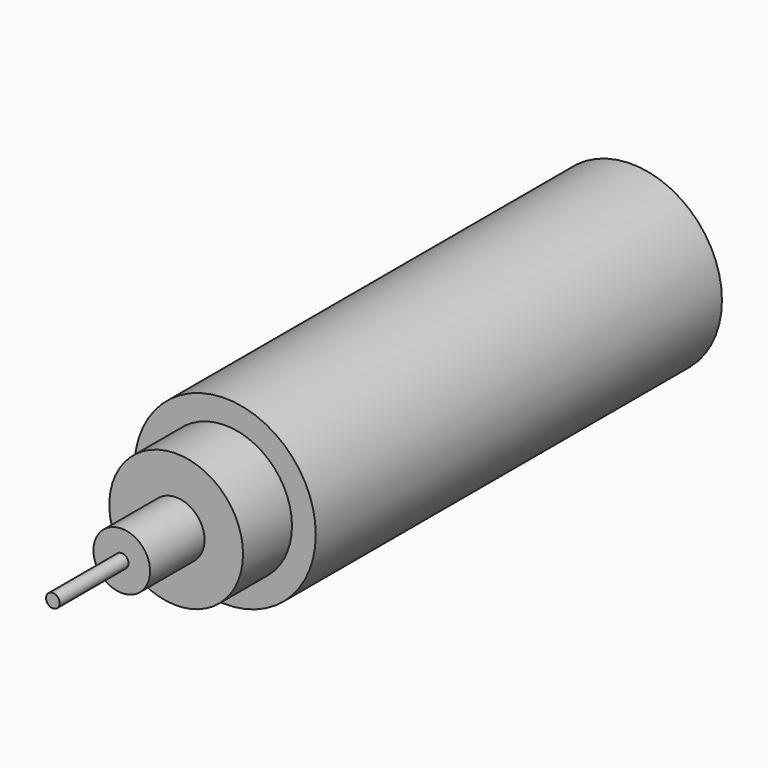
from build123d import *

# Parameters (mm, degrees)
F0_R     = 40
F1_DEPTH = 224
F2_R     = 29.5
F3_DEPTH = 27
F4_R     = 12.5
F5_DEPTH = 30
F6_R     = 12.5
F7_DEPTH = 25
F8_R     = 3
F9_DEPTH = 38


with BuildPart() as f1:
    # F0 (on Front) → F1 (new body)
    with BuildSketch(Plane.XZ):
        Circle(F0_R)
    extrude(amount=F1_DEPTH)

    # F2 (on face) → F3 (join)
    with BuildSketch(Plane.XZ.offset(224)):
        Circle(F2_R)
    extrude(amount=F3_DEPTH)

    # F4 (on face) → F5 (join)
    with BuildSketch(Plane.XZ.offset(251)):
        Circle(F4_R)
    extrude(amount=F5_DEPTH)

    # F6 (on face) → F7 (join)
    with BuildSketch(Plane(origin=(0, 0, 0), x_dir=(-1, 0, 0), z_dir=(0, 1, 0))):
        Circle(F6_R)
    extrude(amount=F7_DEPTH)

    # F8 (on face) → F9 (join)
    with BuildSketch(Plane.XZ.offset(281)):
        Circle(F8_R)
    extrude(amount=F9_DEPTH)


solid = f1.part
